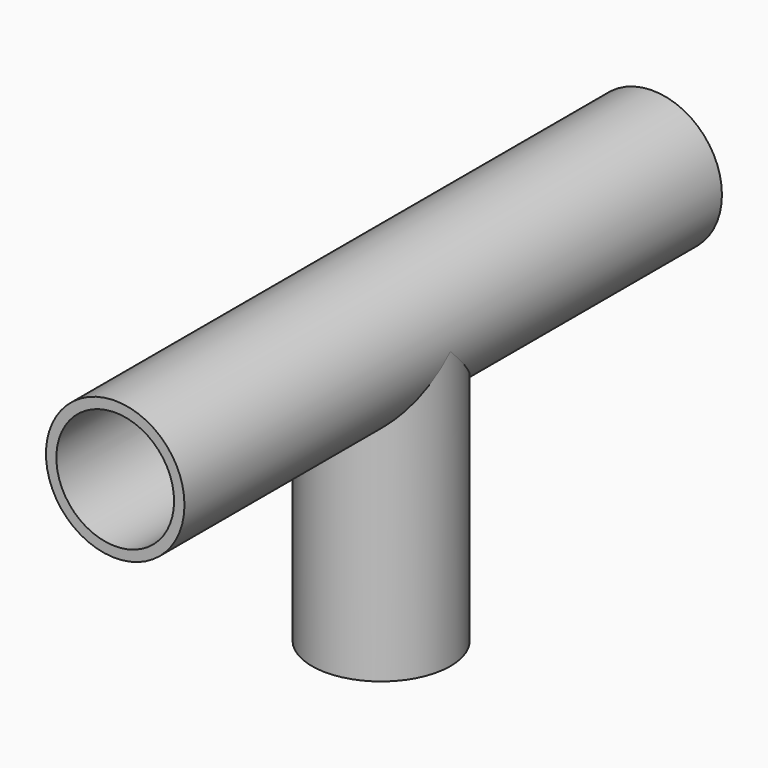
from build123d import *

# Parameters (mm, degrees)
F0_R     = 10
F0_R_2   = 8.5
F1_DEPTH = 97
F2_R     = 10
F2_R_2   = 8
F3_DEPTH = 40
F4_R     = 8
F5_DEPTH = 59.3
F6_R     = 8.5
F7_DEPTH = 110


with BuildPart() as f1:
    # F0 (on Front) → F1 (new body)
    with BuildSketch(Plane.XZ):
        Circle(F0_R)
        Circle(F0_R_2, mode=Mode.SUBTRACT)
    extrude(amount=F1_DEPTH)

    # F2 (on Top) → F3 (join)
    with BuildSketch(Plane.XY):
        with Locations((0, -49)):
            Circle(F2_R)
        with Locations((0, -49)):
            Circle(F2_R_2, mode=Mode.SUBTRACT)
    extrude(amount=-F3_DEPTH)

    # F4 (on Top) → F5 (cut)
    with BuildSketch(Plane.XY):
        with Locations((0, -49)):
            Circle(F4_R)
    extrude(amount=-F5_DEPTH, mode=Mode.SUBTRACT)

    # F6 (on Front) → F7 (cut)
    with BuildSketch(Plane.XZ):
        Circle(F6_R)
    extrude(amount=F7_DEPTH, mode=Mode.SUBTRACT)


solid = f1.part
